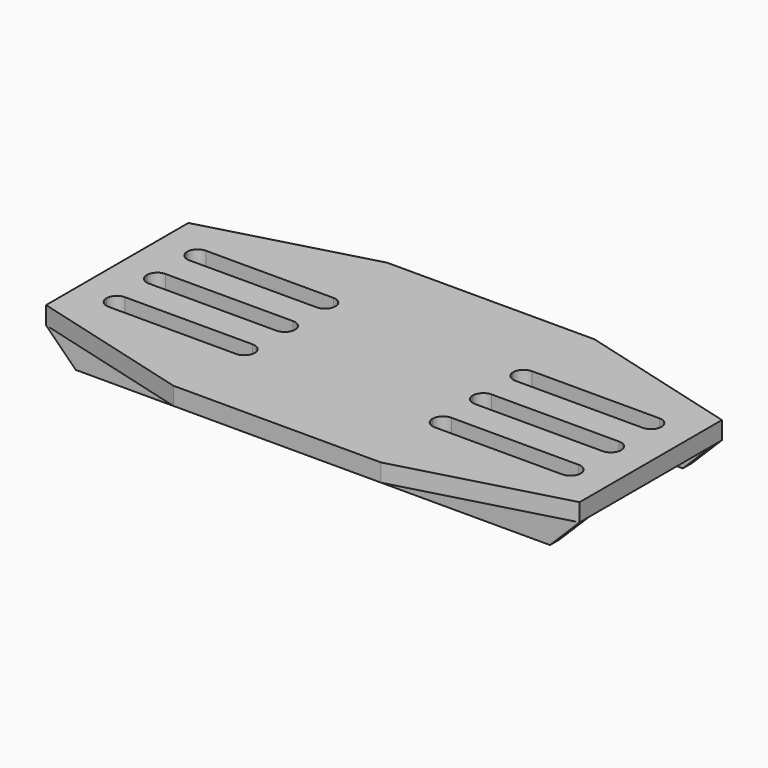
from build123d import *

# Parameters (mm, degrees)
F0_W     = 45
F0_H     = 2
F1_DEPTH = 3
F2_DEPTH = 5
F3_SIZE  = 5


with BuildPart() as f1:
    # F0 (on Top) → F1 (new body)
    with BuildSketch(Plane.XY):
        Polygon((-47.8720533848, 45), (-65.3720533848, 45), (-92.8720533848, 37.5), (-47.8720533848, 37.5), align=None)
        Polygon((-30.3720533848, 45), (-47.8720533848, 45), (-47.8720533848, 37.5), (-2.8720533848, 37.5), align=None)
        with Locations((-70.3720533848, 36.5)):
            Rectangle(F0_W, F0_H)
        with Locations((-25.3720533848, 36.5)):
            Rectangle(F0_W, F0_H)
        with BuildLine():
            Line((-47.8720533848, 35.5), (-92.8720533848, 35.5))
            Line((-92.8720533848, 35.5), (-92.8720533848, 31))
            Line((-92.8720533848, 31), (-87.8720533848, 31))
            ThreePointArc((-87.8720533848, 31), (-87.3594902519, 32.2374368671), (-86.1220533848, 32.75))
            Line((-86.1220533848, 32.75), (-64.6220533848, 32.75))
            ThreePointArc((-64.6220533848, 32.75), (-63.3846165177, 32.2374368671), (-62.8720533848, 31))
            Line((-62.8720533848, 31), (-47.8720533848, 31))
            Line((-47.8720533848, 31), (-47.8720533848, 35.5))
        make_face()
        with BuildLine():
            Line((-2.8720533848, 35.5), (-47.8720533848, 35.5))
            Line((-47.8720533848, 35.5), (-47.8720533848, 31))
            Line((-47.8720533848, 31), (-32.8720533848, 31))
            ThreePointArc((-32.8720533848, 31), (-32.3594902519, 32.2374368671), (-31.1220533848, 32.75))
            Line((-31.1220533848, 32.75), (-9.6220533848, 32.75))
            ThreePointArc((-9.6220533848, 32.75), (-8.3846165177, 32.2374368671), (-7.8720533848, 31))
            Line((-7.8720533848, 31), (-2.8720533848, 31))
            Line((-2.8720533848, 31), (-2.8720533848, 35.5))
        make_face()
        with BuildLine():
            Line((-87.8720533848, 31), (-92.8720533848, 31))
            Line((-92.8720533848, 31), (-92.8720533848, 22.5))
            Line((-92.8720533848, 22.5), (-87.8720533848, 22.5))
            ThreePointArc((-87.8720533848, 22.5), (-87.3594902519, 23.7374368671), (-86.1220533848, 24.25))
            Line((-86.1220533848, 24.25), (-64.6220533848, 24.25))
            ThreePointArc((-64.6220533848, 24.25), (-63.3846165177, 23.7374368671), (-62.8720533848, 22.5))
            Line((-62.8720533848, 22.5), (-47.8720533848, 22.5))
            Line((-47.8720533848, 22.5), (-47.8720533848, 31))
            Line((-47.8720533848, 31), (-62.8720533848, 31))
            ThreePointArc((-62.8720533848, 31), (-63.3846165177, 29.7625631329), (-64.6220533848, 29.25))
            Line((-64.6220533848, 29.25), (-86.1220533848, 29.25))
            ThreePointArc((-86.1220533848, 29.25), (-87.3594902519, 29.7625631329), (-87.8720533848, 31))
        make_face()
        with BuildLine():
            Line((-32.8720533848, 31), (-47.8720533848, 31))
            Line((-47.8720533848, 31), (-47.8720533848, 22.5))
            Line((-47.8720533848, 22.5), (-32.8720533848, 22.5))
            ThreePointArc((-32.8720533848, 22.5), (-32.3594902519, 23.7374368671), (-31.1220533848, 24.25))
            Line((-31.1220533848, 24.25), (-9.6220533848, 24.25))
            ThreePointArc((-9.6220533848, 24.25), (-8.3846165177, 23.7374368671), (-7.8720533848, 22.5))
            Line((-7.8720533848, 22.5), (-2.8720533848, 22.5))
            Line((-2.8720533848, 22.5), (-2.8720533848, 31))
            Line((-2.8720533848, 31), (-7.8720533848, 31))
            ThreePointArc((-7.8720533848, 31), (-8.3846165177, 29.7625631329), (-9.6220533848, 29.25))
            Line((-9.6220533848, 29.25), (-31.1220533848, 29.25))
            ThreePointArc((-31.1220533848, 29.25), (-32.3594902519, 29.7625631329), (-32.8720533848, 31))
        make_face()
        with BuildLine():
            Line((-87.8720533848, 22.5), (-92.8720533848, 22.5))
            Line((-92.8720533848, 22.5), (-92.8720533848, 14))
            Line((-92.8720533848, 14), (-87.8720533848, 14))
            ThreePointArc((-87.8720533848, 14), (-87.3594902519, 15.2374368671), (-86.1220533848, 15.75))
            Line((-86.1220533848, 15.75), (-64.6220533848, 15.75))
            ThreePointArc((-64.6220533848, 15.75), (-63.3846165177, 15.2374368671), (-62.8720533848, 14))
            Line((-62.8720533848, 14), (-47.8720533848, 14))
            Line((-47.8720533848, 14), (-47.8720533848, 22.5))
            Line((-47.8720533848, 22.5), (-62.8720533848, 22.5))
            ThreePointArc((-62.8720533848, 22.5), (-63.3846165177, 21.2625631329), (-64.6220533848, 20.75))
            Line((-64.6220533848, 20.75), (-86.1220533848, 20.75))
            ThreePointArc((-86.1220533848, 20.75), (-87.3594902519, 21.2625631329), (-87.8720533848, 22.5))
        make_face()
        with BuildLine():
            Line((-32.8720533848, 22.5), (-47.8720533848, 22.5))
            Line((-47.8720533848, 22.5), (-47.8720533848, 14))
            Line((-47.8720533848, 14), (-32.8720533848, 14))
            ThreePointArc((-32.8720533848, 14), (-32.3594902519, 15.2374368671), (-31.1220533848, 15.75))
            Line((-31.1220533848, 15.75), (-9.6220533848, 15.75))
            ThreePointArc((-9.6220533848, 15.75), (-8.3846165177, 15.2374368671), (-7.8720533848, 14))
            Line((-7.8720533848, 14), (-2.8720533848, 14))
            Line((-2.8720533848, 14), (-2.8720533848, 22.5))
            Line((-2.8720533848, 22.5), (-7.8720533848, 22.5))
            ThreePointArc((-7.8720533848, 22.5), (-8.3846165177, 21.2625631329), (-9.6220533848, 20.75))
            Line((-9.6220533848, 20.75), (-31.1220533848, 20.75))
            ThreePointArc((-31.1220533848, 20.75), (-32.3594902519, 21.2625631329), (-32.8720533848, 22.5))
        make_face()
        with BuildLine():
            Line((-87.8720533848, 14), (-92.8720533848, 14))
            Line((-92.8720533848, 14), (-92.8720533848, 9.5))
            Line((-92.8720533848, 9.5), (-47.8720533848, 9.5))
            Line((-47.8720533848, 9.5), (-47.8720533848, 14))
            Line((-47.8720533848, 14), (-62.8720533848, 14))
            ThreePointArc((-62.8720533848, 14), (-63.3846165177, 12.7625631329), (-64.6220533848, 12.25))
            Line((-64.6220533848, 12.25), (-86.1220533848, 12.25))
            ThreePointArc((-86.1220533848, 12.25), (-87.3594902519, 12.7625631329), (-87.8720533848, 14))
        make_face()
        with BuildLine():
            Line((-32.8720533848, 14), (-47.8720533848, 14))
            Line((-47.8720533848, 14), (-47.8720533848, 9.5))
            Line((-47.8720533848, 9.5), (-2.8720533848, 9.5))
            Line((-2.8720533848, 9.5), (-2.8720533848, 14))
            Line((-2.8720533848, 14), (-7.8720533848, 14))
            ThreePointArc((-7.8720533848, 14), (-8.3846165177, 12.7625631329), (-9.6220533848, 12.25))
            Line((-9.6220533848, 12.25), (-31.1220533848, 12.25))
            ThreePointArc((-31.1220533848, 12.25), (-32.3594902519, 12.7625631329), (-32.8720533848, 14))
        make_face()
        with Locations((-70.3720533848, 8.5)):
            Rectangle(F0_W, F0_H)
        with Locations((-25.3720533848, 8.5)):
            Rectangle(F0_W, F0_H)
        Polygon((-47.8720533848, 7.5), (-92.8720533848, 7.5), (-65.3720533848, 0), (-47.8720533848, 0), align=None)
        Polygon((-2.8720533848, 7.5), (-47.8720533848, 7.5), (-47.8720533848, 0), (-30.3720533848, 0), align=None)
    extrude(amount=F1_DEPTH)

    # F0 (on Top) → F2 (join)
    with BuildSketch(Plane.XY):
        with Locations((-25.3720533848, 36.5)):
            Rectangle(F0_W, F0_H)
        with Locations((-70.3720533848, 36.5)):
            Rectangle(F0_W, F0_H)
        with Locations((-25.3720533848, 8.5)):
            Rectangle(F0_W, F0_H)
        with Locations((-70.3720533848, 8.5)):
            Rectangle(F0_W, F0_H)
    extrude(amount=-F2_DEPTH)

    # F3
    f3_edges = [f1.edges().sort_by_distance(p)[0] for p in [
        (-92.872053, 36.5, -5),
        (-92.872053, 8.5, -5),
        (-2.872053, 8.5, -5),
        (-2.872053, 36.5, -5),
    ]]
    chamfer(f3_edges, length=F3_SIZE)


solid = f1.part
